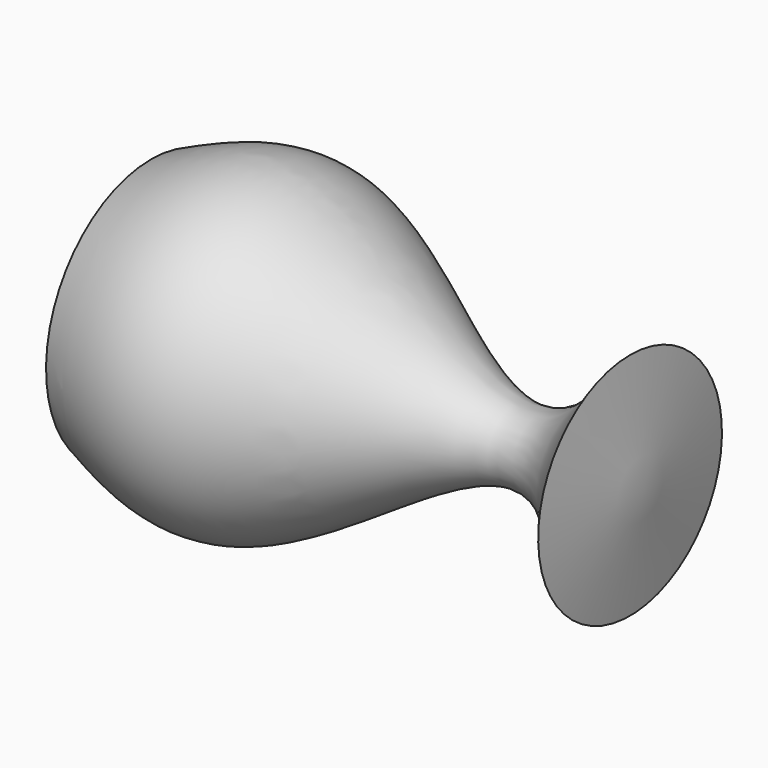
from build123d import *


with BuildPart() as f1:
    # F0 (on Front) → F1 (revolve)
    with BuildSketch(Plane.XZ):
        with BuildLine():
            Line((0, 12.7), (0, 0))
            Line((0, 0), (47.6294830441, 0))
            Line((47.6294830441, 0), (46.3116690516, 11.1065628007))
            add(Edge.make_bspline(
                [(0, 12.7), (4.2283791404, 14.5423596139), (14.1216740385, 18.8529964709), (36.2705263385, -2.4465474721), (43.3488989691, 7.1075408976), (46.3116690516, 11.1065628007)],
                knots=[0, 0, 0, 0, 0.3026454312, 0.708110697, 1, 1, 1, 1], degree=3))
        make_face()
    revolve(axis=Axis((-1.129552722, 0, 0), (1, 0, 0)))


solid = f1.part
